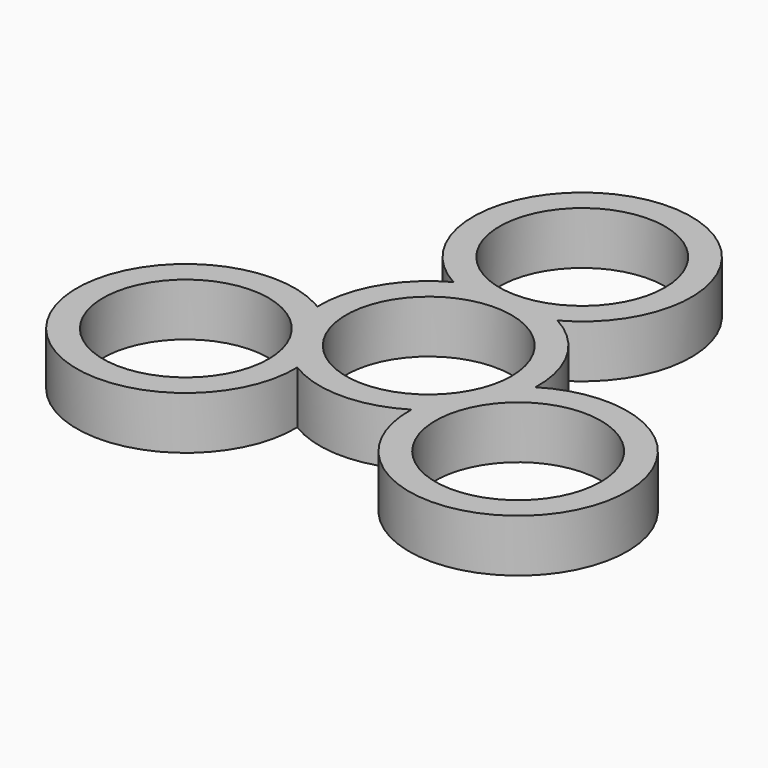
from build123d import *

# Parameters (mm, degrees)
F1_R     = 10.9855
F2_DEPTH = 7


with BuildPart() as f2:
    # F1 (on Top) → F2 (new body)
    with BuildSketch(Plane.XY):
        with BuildLine():
            ThreePointArc((-14.480236, -0.390496), (-14.815783, -0.190689), (-15.156595, 0))
            ThreePointArc((-15.156595, 0), (-34.403537, -20.313797), (-7.578297, -12.345004))
            ThreePointArc((-7.578297, -12.345004), (0, -14.4855), (7.578297, -12.345004))
            ThreePointArc((7.578297, -12.345004), (34.603344, -19.97825), (14.480236, -0.390496))
            ThreePointArc((14.480236, -0.390496), (12.544811, 7.24275), (6.901938, 12.7355))
            ThreePointArc((6.901938, 12.7355), (0, 39.9565), (-6.901938, 12.7355))
            ThreePointArc((-6.901938, 12.7355), (-12.544811, 7.24275), (-14.480236, -0.390496))
        make_face()
        with Locations((-22.058533, -12.7355)):
            Circle(F1_R, mode=Mode.SUBTRACT)
        with Locations((22.058533, -12.7355)):
            Circle(F1_R, mode=Mode.SUBTRACT)
        Circle(F1_R, mode=Mode.SUBTRACT)
        with Locations((0, 25.471)):
            Circle(F1_R, mode=Mode.SUBTRACT)
    extrude(amount=F2_DEPTH)


solid = f2.part
